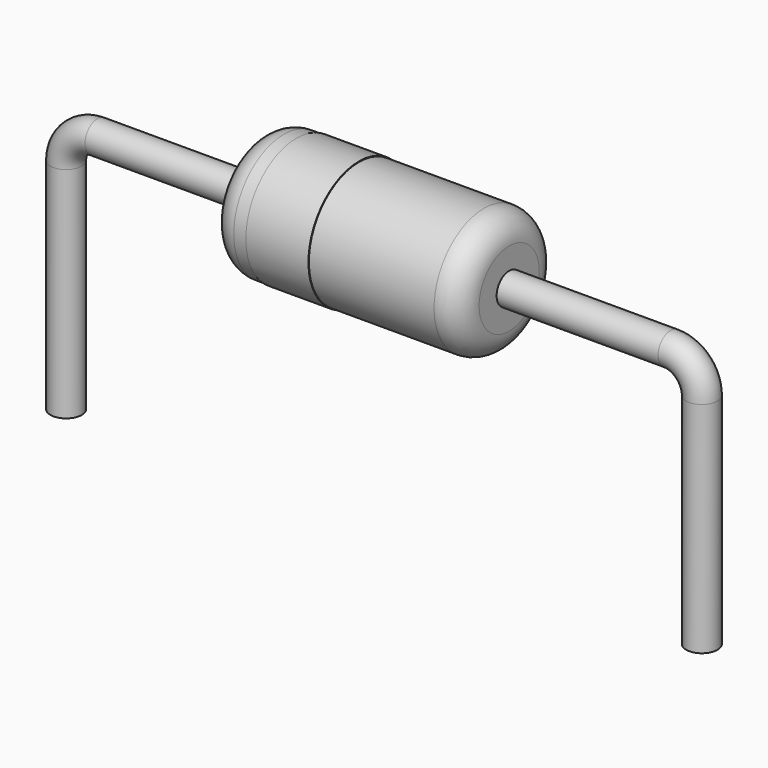
from build123d import *

# Parameters (mm, degrees)
SKETCH002_W = 4
SKETCH002_H = 1
FILLET_R    = 0.4
SKETCH003_W = 1
SKETCH003_H = 0.02
SKETCH_R    = 0.25


with BuildPart() as fillet_body:
    # Sketch002 → Revolution (revolve)
    with BuildSketch(Plane.XZ):
        with Locations((5.08, 2)):
            Rectangle(SKETCH002_W, SKETCH002_H)
    revolve(axis=Axis((3.08, 0, 1.5), (1, 0, 0)))

    # Fillet
    fillet_edges = [fillet_body.edges().sort_by_distance(p)[0] for p in [
        (3.08, 0, 0.5),
        (7.08, 0, 0.5),
    ]]
    fillet(fillet_edges, radius=FILLET_R)


with BuildPart() as revolution001:
    # Sketch003 → Revolution001 (revolve)
    with BuildSketch(Plane.XZ):
        with Locations((4.18, 2.5)):
            Rectangle(SKETCH003_W, SKETCH003_H)
    revolve(axis=Axis((0, 0, 1.5), (1, 0, 0)))


with BuildPart() as sweep_body:
    # Sweep: sweep along a path in Sketch001
    with BuildLine(Plane.XZ) as sweep_path:
        Line((0, -2.5), (0, 1))
        ThreePointArc((0, 1), (0.146447, 1.353553), (0.5, 1.5))
        Line((0.5, 1.5), (9.66, 1.5))
        ThreePointArc((9.66, 1.5), (10.013553, 1.353553), (10.16, 1))
        Line((10.16, 1), (10.16, -2.5))
    # Sketch → Sweep (sweep)
    with BuildSketch(Plane.XY.offset(-2)):
        Circle(SKETCH_R)
    sweep(path=sweep_path.line)


solid = Compound([fillet_body.part, revolution001.part, sweep_body.part])
